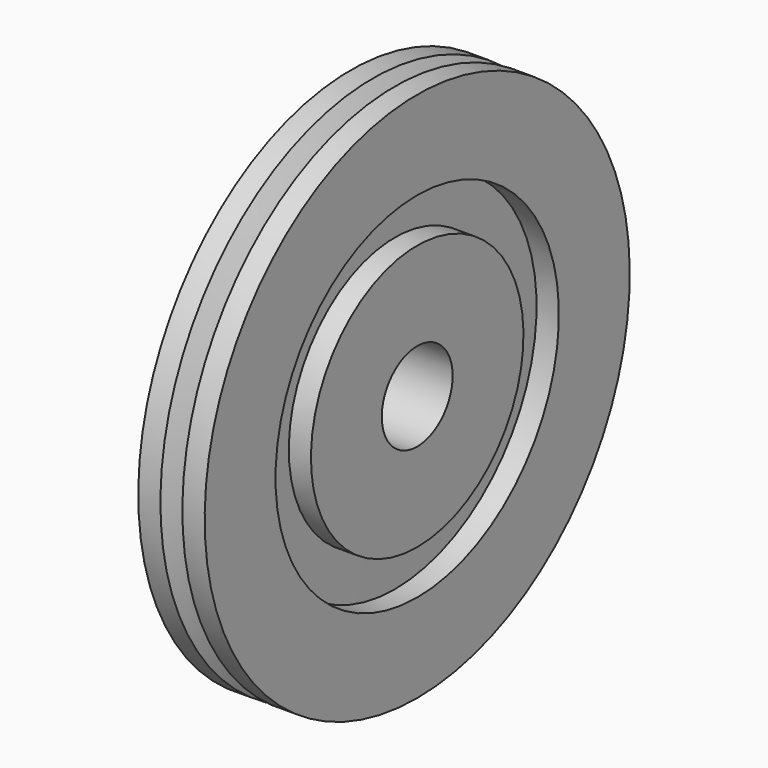
from build123d import *


with BuildPart() as f1:
    # F0 (on Front) → F1 (revolve)
    with BuildSketch(Plane.XZ):
        Polygon((0, -60), (0, -20), (-30, -20), (-30, -60), (-20, -60), (-20, -80), (-30, -80), (-30, -120), (-20, -120), (-15, -110), (-10.080689, -120), (0, -120), (0, -109.999837), (0, -79.999837), (-10.080689, -79.999837), (-10, -60), align=None)
    revolve(axis=Axis((2.407097, 0, 0), (1, 0, 0)))


solid = f1.part
